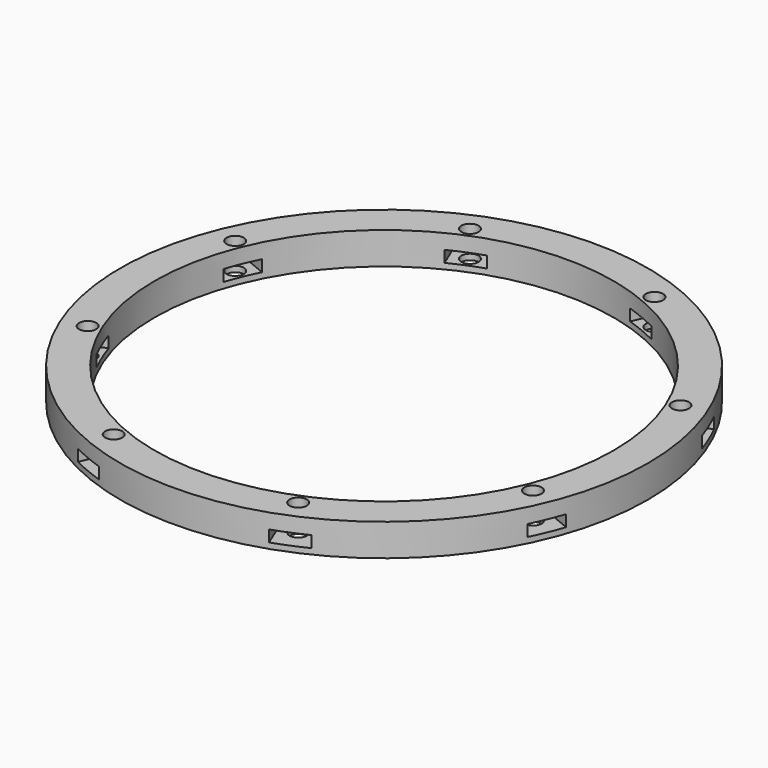
from build123d import *

# Parameters (mm, degrees)
BOX548_W                     = 6
BOX548_H                     = 8
BOX548_DEPTH                 = 2
BOX548_PLACEMENT_ANGLE       = 45
BOX546_W                     = 6
BOX546_H                     = 8
BOX546_DEPTH                 = 2
BOX545_W                     = 6
BOX545_H                     = 8
BOX545_DEPTH                 = 2
BOX549_W                     = 6
BOX549_H                     = 8
BOX549_DEPTH                 = 2
BOX549_PLACEMENT_ANGLE       = 135
BOX550_W                     = 6
BOX550_H                     = 8
BOX550_DEPTH                 = 2
BOX547_W                     = 6
BOX547_H                     = 8
BOX547_DEPTH                 = 2
BOX547_PLACEMENT_ANGLE       = 225
BOX551_W                     = 6
BOX551_H                     = 8
BOX551_DEPTH                 = 2
BOX544_W                     = 6
BOX544_H                     = 8
BOX544_DEPTH                 = 2
BOX544_PLACEMENT_ANGLE       = 45
COMPOUND930_PLACEMENT_ANGLE  = 22.5
CYLINDER1307_R               = 1.5
CYLINDER1307_DEPTH           = 32
CYLINDER1307_PLACEMENT_ANGLE = 45
CYLINDER1310_R               = 1.5
CYLINDER1310_DEPTH           = 32
CYLINDER1308_R               = 1.5
CYLINDER1308_DEPTH           = 32
CYLINDER1308_PLACEMENT_ANGLE = 135
CYLINDER1306_R               = 1.5
CYLINDER1306_DEPTH           = 32
CYLINDER1304_R               = 1.5
CYLINDER1304_DEPTH           = 32
CYLINDER1304_PLACEMENT_ANGLE = 225
CYLINDER1309_R               = 1.5
CYLINDER1309_DEPTH           = 32
CYLINDER1303_R               = 1.5
CYLINDER1303_DEPTH           = 32
CYLINDER1303_PLACEMENT_ANGLE = 45
CYLINDER1305_R               = 1.5
CYLINDER1305_DEPTH           = 32
COMPOUND931_PLACEMENT_ANGLE  = 22.5
TUBE115_R                    = 50
TUBE115_R_2                  = 40
TUBE115_DEPTH                = 11
TUBE114_R                    = 46
TUBE114_R_2                  = 40
TUBE114_DEPTH                = 16


with BuildPart() as krychle548:
    # Box548 → Box548 (new body)
    with BuildSketch(Plane.XY):
        with Locations((3, 4)):
            Rectangle(BOX548_W, BOX548_H)
    extrude(amount=BOX548_DEPTH)


with BuildPart() as krychle548_1:
    # Box548 placement: moved
    add(krychle548.part.moved(Location((30.405592, -34.648232, 33))).rotate(Axis((30.405592, -34.648232, 33), (0, 0, 1)), BOX548_PLACEMENT_ANGLE))


with BuildPart() as krychle546:
    # Box546 → Box546 (new body)
    with BuildSketch(Plane(origin=(46, -3, 33), x_dir=(0, 1, 0), z_dir=(0, 0, 1))):
        with Locations((3, 4)):
            Rectangle(BOX546_W, BOX546_H)
    extrude(amount=BOX546_DEPTH)


with BuildPart() as krychle545:
    # Box545 → Box545 (new body)
    with BuildSketch(Plane(origin=(-3, -46, 33), x_dir=(1, 0, 0), z_dir=(0, 0, 1))):
        with Locations((3, 4)):
            Rectangle(BOX545_W, BOX545_H)
    extrude(amount=BOX545_DEPTH)


with BuildPart() as krychle549:
    # Box549 → Box549 (new body)
    with BuildSketch(Plane.XY):
        with Locations((3, 4)):
            Rectangle(BOX549_W, BOX549_H)
    extrude(amount=BOX549_DEPTH)


with BuildPart() as krychle549_1:
    # Box549 placement: moved
    add(krychle549.part.moved(Location((34.648232, 30.405592, 33))).rotate(Axis((34.648232, 30.405592, 33), (0, 0, 1)), BOX549_PLACEMENT_ANGLE))


with BuildPart() as krychle550:
    # Box550 → Box550 (new body)
    with BuildSketch(Plane(origin=(3, 46, 33), x_dir=(-1, 0, 0), z_dir=(0, 0, 1))):
        with Locations((3, 4)):
            Rectangle(BOX550_W, BOX550_H)
    extrude(amount=BOX550_DEPTH)


with BuildPart() as krychle547:
    # Box547 → Box547 (new body)
    with BuildSketch(Plane.XY):
        with Locations((3, 4)):
            Rectangle(BOX547_W, BOX547_H)
    extrude(amount=BOX547_DEPTH)


with BuildPart() as krychle547_1:
    # Box547 placement: moved
    add(krychle547.part.moved(Location((-30.405592, 34.648232, 33))).rotate(Axis((-30.405592, 34.648232, 33), (0, 0, 1)), BOX547_PLACEMENT_ANGLE))


with BuildPart() as krychle551:
    # Box551 → Box551 (new body)
    with BuildSketch(Plane(origin=(-46, 3, 33), x_dir=(0, -1, 0), z_dir=(0, 0, 1))):
        with Locations((3, 4)):
            Rectangle(BOX551_W, BOX551_H)
    extrude(amount=BOX551_DEPTH)


with BuildPart() as compound930:
    # Box544 → Box544 (new body)
    with BuildSketch(Plane.XY):
        with Locations((3, 4)):
            Rectangle(BOX544_W, BOX544_H)
    extrude(amount=BOX544_DEPTH)


with BuildPart() as compound930_1:
    # Box544 placement: moved
    add(compound930.part.moved(Location((-34.648232, -30.405592, 33))).rotate(Axis((-34.648232, -30.405592, 33), (0, 0, -1)), BOX544_PLACEMENT_ANGLE))

    # Compound930: union Krychle548, Krychle546, Krychle545, Krychle549, Krychle550, Krychle547, Krychle551
    add(krychle548_1.part)
    add(krychle546.part)
    add(krychle545.part)
    add(krychle549_1.part)
    add(krychle550.part)
    add(krychle547_1.part)
    add(krychle551.part)


with BuildPart() as compound930_2:
    # Compound930 placement: moved
    add(compound930_1.part.moved(Location((0, 0, 4.4))).rotate(Axis((0, 0, 4.4), (0, 0, 1)), COMPOUND930_PLACEMENT_ANGLE))


with BuildPart() as obj1:
    # Cylinder1307 → Cylinder1307 (new body)
    with BuildSketch(Plane.XY):
        Circle(CYLINDER1307_R)
    extrude(amount=CYLINDER1307_DEPTH)


with BuildPart() as obj1_1:
    # Cylinder1307 placement: moved
    add(obj1.part.moved(Location((29.698485, -29.698485, 33.5))).rotate(Axis((29.698485, -29.698485, 33.5), (0, 0, 1)), CYLINDER1307_PLACEMENT_ANGLE))


with BuildPart() as obj2:
    # Cylinder1310 → Cylinder1310 (new body)
    with BuildSketch(Plane(origin=(42, 0, 33.5), x_dir=(0, 1, 0), z_dir=(0, 0, 1))):
        Circle(CYLINDER1310_R)
    extrude(amount=CYLINDER1310_DEPTH)


with BuildPart() as obj3:
    # Cylinder1308 → Cylinder1308 (new body)
    with BuildSketch(Plane.XY):
        Circle(CYLINDER1308_R)
    extrude(amount=CYLINDER1308_DEPTH)


with BuildPart() as obj3_1:
    # Cylinder1308 placement: moved
    add(obj3.part.moved(Location((29.698485, 29.698485, 33.5))).rotate(Axis((29.698485, 29.698485, 33.5), (0, 0, 1)), CYLINDER1308_PLACEMENT_ANGLE))


with BuildPart() as obj4:
    # Cylinder1306 → Cylinder1306 (new body)
    with BuildSketch(Plane(origin=(0, 42, 33.5), x_dir=(-1, 0, 0), z_dir=(0, 0, 1))):
        Circle(CYLINDER1306_R)
    extrude(amount=CYLINDER1306_DEPTH)


with BuildPart() as obj5:
    # Cylinder1304 → Cylinder1304 (new body)
    with BuildSketch(Plane.XY):
        Circle(CYLINDER1304_R)
    extrude(amount=CYLINDER1304_DEPTH)


with BuildPart() as obj5_1:
    # Cylinder1304 placement: moved
    add(obj5.part.moved(Location((-29.698485, 29.698485, 33.5))).rotate(Axis((-29.698485, 29.698485, 33.5), (0, 0, 1)), CYLINDER1304_PLACEMENT_ANGLE))


with BuildPart() as obj6:
    # Cylinder1309 → Cylinder1309 (new body)
    with BuildSketch(Plane(origin=(-42, 0, 33.5), x_dir=(0, -1, 0), z_dir=(0, 0, 1))):
        Circle(CYLINDER1309_R)
    extrude(amount=CYLINDER1309_DEPTH)


with BuildPart() as obj7:
    # Cylinder1303 → Cylinder1303 (new body)
    with BuildSketch(Plane.XY):
        Circle(CYLINDER1303_R)
    extrude(amount=CYLINDER1303_DEPTH)


with BuildPart() as obj7_1:
    # Cylinder1303 placement: moved
    add(obj7.part.moved(Location((-29.698485, -29.698485, 33.5))).rotate(Axis((-29.698485, -29.698485, 33.5), (0, 0, -1)), CYLINDER1303_PLACEMENT_ANGLE))


with BuildPart() as compound931:
    # Cylinder1305 → Cylinder1305 (new body)
    with BuildSketch(Plane(origin=(0, -42, 33.5), x_dir=(1, 0, 0), z_dir=(0, 0, 1))):
        Circle(CYLINDER1305_R)
    extrude(amount=CYLINDER1305_DEPTH)

    # Compound931: union obj1, obj2, obj3, obj4, obj5, obj6, obj7
    add(obj1_1.part)
    add(obj2.part)
    add(obj3_1.part)
    add(obj4.part)
    add(obj5_1.part)
    add(obj6.part)
    add(obj7_1.part)


with BuildPart() as compound931_1:
    # Compound931 placement: moved
    add(compound931.part.rotate(Axis((0, 0, 0), (0, 0, 1)), COMPOUND931_PLACEMENT_ANGLE))


with BuildPart() as tube115:
    # Tube115 → Tube115 (new body)
    with BuildSketch(Plane.XY.offset(25.4)):
        Circle(TUBE115_R)
        Circle(TUBE115_R_2, mode=Mode.SUBTRACT)
    extrude(amount=TUBE115_DEPTH)


with BuildPart() as cut476:
    # Tube114 → Tube114 (new body)
    with BuildSketch(Plane.XY.offset(26)):
        Circle(TUBE114_R)
        Circle(TUBE114_R_2, mode=Mode.SUBTRACT)
    extrude(amount=TUBE114_DEPTH)

    # Cut473: cut Tube115
    add(tube115.part, mode=Mode.SUBTRACT)

    # Cut475: cut Compound931
    add(compound931_1.part, mode=Mode.SUBTRACT)

    # Cut476: cut Compound930
    add(compound930_2.part, mode=Mode.SUBTRACT)


with BuildPart() as cut476_1:
    # Cut476 placement: moved
    add(cut476.part.moved(Location((0, 0, 3))))


solid = cut476_1.part
